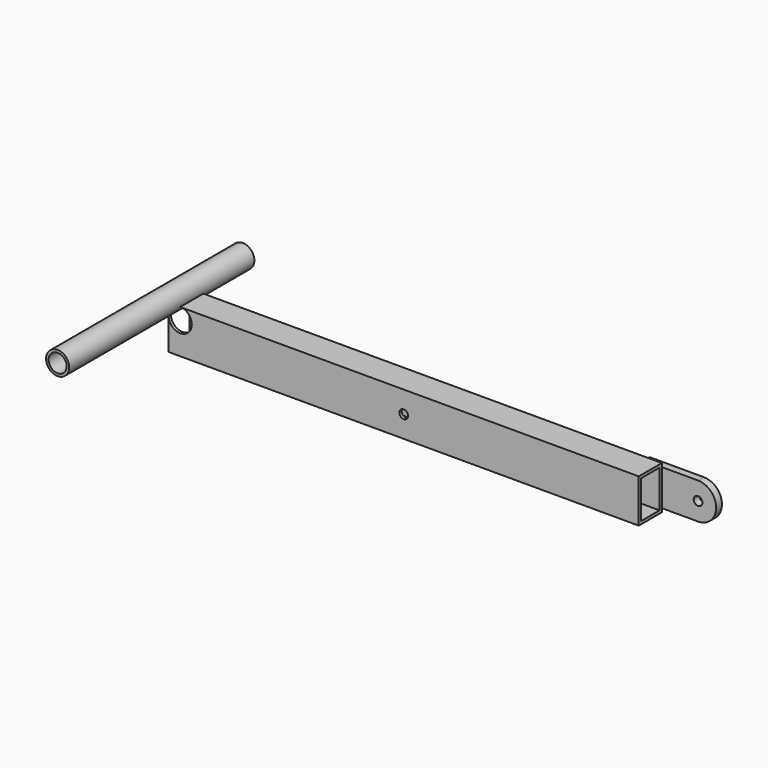
from build123d import *

# Parameters (mm, degrees)
F0_W     = 40
F0_H     = 60
F0_W_2   = 32
F0_H_2   = 52
F1_DEPTH = 650
F3_DEPTH = 10
F5_DEPTH = 40
F7_DEPTH = 40
F8_R     = 16
F8_R_2   = 12.5
F9_DEPTH = 160


with BuildPart() as f1:
    # F0 (on Right) → F1 (new body)
    with BuildSketch(Plane.YZ):
        Rectangle(F0_W, F0_H)
        Rectangle(F0_W_2, F0_H_2, mode=Mode.SUBTRACT)
    extrude(amount=F1_DEPTH)

    # F2 (on face) → F3 (join)
    with BuildSketch(Plane(origin=(0, 20, 0), x_dir=(-1, 0, 0), z_dir=(0, 1, 0))):
        with BuildLine():
            Line((-625, -25), (-625, 0))
            Line((-625, 0), (-625, 25))
            Line((-625, 25), (-700, 25))
            ThreePointArc((-700, 25), (-682.3223304703, 17.6776695297), (-675, 0))
            ThreePointArc((-675, 0), (-682.3223304703, -17.6776695297), (-700, -25))
            Line((-700, -25), (-625, -25))
        make_face()
        with BuildLine():
            ThreePointArc((-700, 25), (-725, 0), (-700, -25))
            Line((-700, -25), (-700, -6))
            ThreePointArc((-700, -6), (-706, 0), (-700, 6))
            Line((-700, 6), (-700, 25))
        make_face()
        with BuildLine():
            Line((-700, -6), (-700, -25))
            ThreePointArc((-700, -25), (-682.3223304703, -17.6776695297), (-675, 0))
            ThreePointArc((-675, 0), (-682.3223304703, 17.6776695297), (-700, 25))
            Line((-700, 25), (-700, 6))
            ThreePointArc((-700, 6), (-695.7573593129, 4.2426406871), (-694, 0))
            ThreePointArc((-694, 0), (-695.7573593129, -4.2426406871), (-700, -6))
        make_face()
    extrude(amount=F3_DEPTH)

    # F4 (on face) → F5 (cut)
    with BuildSketch(Plane(origin=(0, 20, 0), x_dir=(-1, 0, 0), z_dir=(0, 1, 0))):
        with BuildLine():
            Line((0, 14), (0, 30))
            Line((0, 30), (-16, 30))
            ThreePointArc((-16, 30), (-4.686291501, 25.313708499), (0, 14))
        make_face()
        with BuildLine():
            ThreePointArc((0, 14), (-4.686291501, 25.313708499), (-16, 30))
            ThreePointArc((-16, 30), (-27.313708499, 2.686291501), (0, 14))
        make_face()
    extrude(amount=-F5_DEPTH, mode=Mode.SUBTRACT)

    # F6 (on face) → F7 (cut)
    with BuildSketch(Plane(origin=(0, 20, 0), x_dir=(-1, 0, 0), z_dir=(0, 1, 0))):
        with BuildLine():
            ThreePointArc((-325, -6), (-320.7573593129, -4.2426406871), (-319, 0))
            ThreePointArc((-319, 0), (-329.2426406871, 4.2426406871), (-325, -6))
        make_face()
    extrude(amount=-F7_DEPTH, mode=Mode.SUBTRACT)


with BuildPart() as f9:
    # F8 (on Front) → F9 (new body, symmetric)
    with BuildSketch(Plane.XZ):
        with Locations((-41.4762636906, 0)):
            Circle(F8_R)
        with Locations((-41.4762636906, 0)):
            Circle(F8_R_2, mode=Mode.SUBTRACT)
    extrude(amount=F9_DEPTH, both=True)


solid = Compound([f1.part, f9.part])
